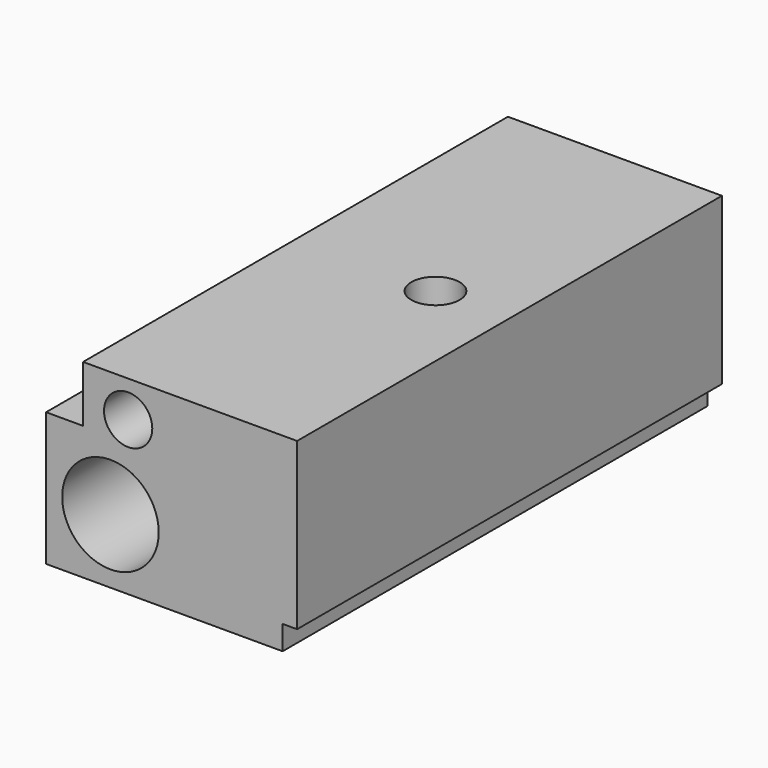
from build123d import *

# Parameters (mm, degrees)
F0_R          = 3
F0_R_2        = 1.5
F1_DEPTH      = 16.5
F1_DEPTH_BACK = 16.5
F2_R          = 1.5
F2_R_2        = 2.5
F3_DEPTH      = 6.5
F4_DEPTH      = 11.8


with BuildPart() as f1:
    # F0 (on Front) → F1 (new body, two sides)
    with BuildSketch(Plane.XZ) as f1_sk:
        Polygon((0, 8.3), (0, 0), (14.7, 0), (14.7, 1.5), (15.6, 1.5), (15.6, 11.8), (2.3, 11.8), (2.3, 8.3), align=None)
        with Locations((4, 4)):
            Circle(F0_R, mode=Mode.SUBTRACT)
        with Locations((5.1, 9.55)):
            Circle(F0_R_2, mode=Mode.SUBTRACT)
    extrude(amount=F1_DEPTH)
    extrude(f1_sk.sketch, amount=-F1_DEPTH_BACK)

    # F2 (on face) → F3 (cut)
    with BuildSketch(Plane(origin=(0, 0, 0), x_dir=(1, 0, 0), z_dir=(0, 0, -1))):
        with Locations((11, 0)):
            Circle(F2_R)
        with Locations((11, 0)):
            Circle(F2_R_2)
        with Locations((11, 0)):
            Circle(F2_R, mode=Mode.SUBTRACT)
    extrude(amount=-F3_DEPTH, mode=Mode.SUBTRACT)

    # F2 (on face) → F4 (cut, through all)
    with BuildSketch(Plane(origin=(0, 0, 0), x_dir=(1, 0, 0), z_dir=(0, 0, -1))):
        with Locations((11, 0)):
            Circle(F2_R)
    extrude(amount=-F4_DEPTH, mode=Mode.SUBTRACT)


solid = f1.part
